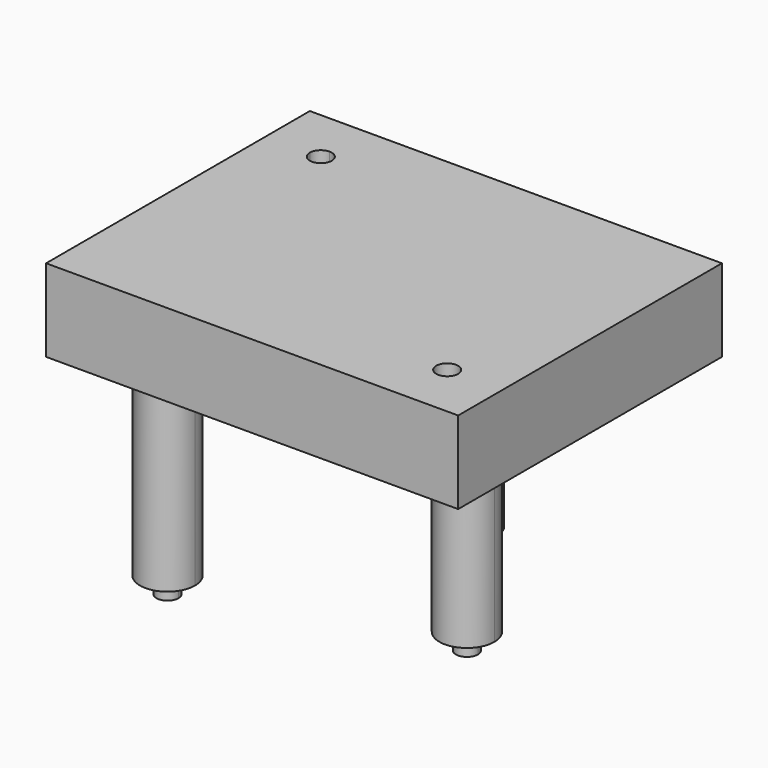
from build123d import *

# Parameters (mm, degrees)
F1_DEPTH = 15
F2_DEPTH = 3
F3_DEPTH = 50
F4_DEPTH = 53


with BuildPart() as f1:
    # F0 (on Top) → F1 (new body)
    with BuildSketch(Plane.XY):
        with BuildLine():
            Line((37.5, -20), (37.5, 30))
            Line((37.5, 30), (-27.5, 30))
            Line((-27.5, 30), (-27.5, 26))
            ThreePointArc((-27.5, 26), (-23.2573593129, 24.2426406871), (-21.5, 20))
            ThreePointArc((-21.5, 20), (-27.5, 14), (-33.5, 20))
            Line((-33.5, 20), (-37.5, 20))
            Line((-37.5, 20), (-37.5, -30))
            Line((-37.5, -30), (27.5, -30))
            Line((27.5, -30), (27.5, -26))
            ThreePointArc((27.5, -26), (23.2573593129, -15.7573593129), (33.5, -20))
            Line((33.5, -20), (37.5, -20))
        make_face()
        with BuildLine():
            ThreePointArc((-19, -19.25), (-27.5355339059, -22.7855339059), (-24, -14.25))
            ThreePointArc((-24, -14.25), (-20.4644660941, -15.7144660941), (-19, -19.25))
        make_face(mode=Mode.SUBTRACT)
        with BuildLine():
            ThreePointArc((25.05, -6.2), (16.5144660941, -9.7355339059), (20.05, -1.2))
            ThreePointArc((20.05, -1.2), (23.5855339059, -2.6644660941), (25.05, -6.2))
        make_face(mode=Mode.SUBTRACT)
        with BuildLine():
            ThreePointArc((5, 19.35), (3.5355339059, 15.8144660941), (0, 14.35))
            ThreePointArc((0, 14.35), (-3.5355339059, 22.8855339059), (5, 19.35))
        make_face(mode=Mode.SUBTRACT)
        with BuildLine():
            Line((-27.5, 26), (-27.5, 30))
            Line((-27.5, 30), (-37.5, 30))
            Line((-37.5, 30), (-37.5, 20))
            Line((-37.5, 20), (-33.5, 20))
            ThreePointArc((-33.5, 20), (-31.7426406871, 24.2426406871), (-27.5, 26))
        make_face()
        with BuildLine():
            Line((37.5, -30), (37.5, -20))
            Line((37.5, -20), (33.5, -20))
            ThreePointArc((33.5, -20), (31.7426406871, -24.2426406871), (27.5, -26))
            Line((27.5, -26), (27.5, -30))
            Line((27.5, -30), (37.5, -30))
        make_face()
    extrude(amount=-F1_DEPTH)

    # F0 (on Top) → F2 (join)
    with BuildSketch(Plane.XY):
        with BuildLine():
            ThreePointArc((-21.5, 20), (-23.2573593129, 24.2426406871), (-27.5, 26))
            Line((-27.5, 26), (-27.5, 22))
            ThreePointArc((-27.5, 22), (-26.0857864376, 21.4142135624), (-25.5, 20))
            ThreePointArc((-25.5, 20), (-27.5, 18), (-29.5, 20))
            Line((-29.5, 20), (-33.5, 20))
            ThreePointArc((-33.5, 20), (-27.5, 14), (-21.5, 20))
        make_face()
        with BuildLine():
            Line((-27.5, 22), (-27.5, 26))
            ThreePointArc((-27.5, 26), (-31.7426406871, 24.2426406871), (-33.5, 20))
            Line((-33.5, 20), (-29.5, 20))
            ThreePointArc((-29.5, 20), (-28.9142135624, 21.4142135624), (-27.5, 22))
        make_face()
        with BuildLine():
            ThreePointArc((27.5, -26), (31.7426406871, -24.2426406871), (33.5, -20))
            Line((33.5, -20), (29.5, -20))
            ThreePointArc((29.5, -20), (28.9142135624, -21.4142135624), (27.5, -22))
            Line((27.5, -22), (27.5, -26))
        make_face()
        with BuildLine():
            Line((29.5, -20), (33.5, -20))
            ThreePointArc((33.5, -20), (23.2573593129, -15.7573593129), (27.5, -26))
            Line((27.5, -26), (27.5, -22))
            ThreePointArc((27.5, -22), (26.0857864376, -18.5857864376), (29.5, -20))
        make_face()
    extrude(amount=-F2_DEPTH)

    # F0 (on Top) → F3 (join)
    with BuildSketch(Plane.XY):
        with BuildLine():
            ThreePointArc((5, 19.35), (-3.5355339059, 22.8855339059), (0, 14.35))
            ThreePointArc((0, 14.35), (3.5355339059, 15.8144660941), (5, 19.35))
        make_face()
        with BuildLine():
            ThreePointArc((2, 19.35), (1.4142135624, 17.9357864376), (0, 17.35))
            ThreePointArc((0, 17.35), (-1.4142135624, 20.7642135624), (2, 19.35))
        make_face(mode=Mode.SUBTRACT)
        with BuildLine():
            ThreePointArc((-19, -19.25), (-20.4644660941, -15.7144660941), (-24, -14.25))
            ThreePointArc((-24, -14.25), (-27.5355339059, -22.7855339059), (-19, -19.25))
        make_face()
        with BuildLine():
            ThreePointArc((-22, -19.25), (-25.4142135624, -20.6642135624), (-24, -17.25))
            ThreePointArc((-24, -17.25), (-22.5857864376, -17.8357864376), (-22, -19.25))
        make_face(mode=Mode.SUBTRACT)
        with BuildLine():
            ThreePointArc((25.05, -6.2), (23.5855339059, -2.6644660941), (20.05, -1.2))
            ThreePointArc((20.05, -1.2), (16.5144660941, -9.7355339059), (25.05, -6.2))
        make_face()
        with BuildLine():
            ThreePointArc((22.05, -6.2), (18.6357864376, -7.6142135624), (20.05, -4.2))
            ThreePointArc((20.05, -4.2), (21.4642135624, -4.7857864376), (22.05, -6.2))
        make_face(mode=Mode.SUBTRACT)
    extrude(amount=-F3_DEPTH)

    # F0 (on Top) → F4 (join)
    with BuildSketch(Plane.XY):
        with BuildLine():
            ThreePointArc((2, 19.35), (-1.4142135624, 20.7642135624), (0, 17.35))
            ThreePointArc((0, 17.35), (1.4142135624, 17.9357864376), (2, 19.35))
        make_face()
        with BuildLine():
            ThreePointArc((-22, -19.25), (-22.5857864376, -17.8357864376), (-24, -17.25))
            ThreePointArc((-24, -17.25), (-25.4142135624, -20.6642135624), (-22, -19.25))
        make_face()
        with BuildLine():
            ThreePointArc((22.05, -6.2), (21.4642135624, -4.7857864376), (20.05, -4.2))
            ThreePointArc((20.05, -4.2), (18.6357864376, -7.6142135624), (22.05, -6.2))
        make_face()
    extrude(amount=-F4_DEPTH)


solid = f1.part
